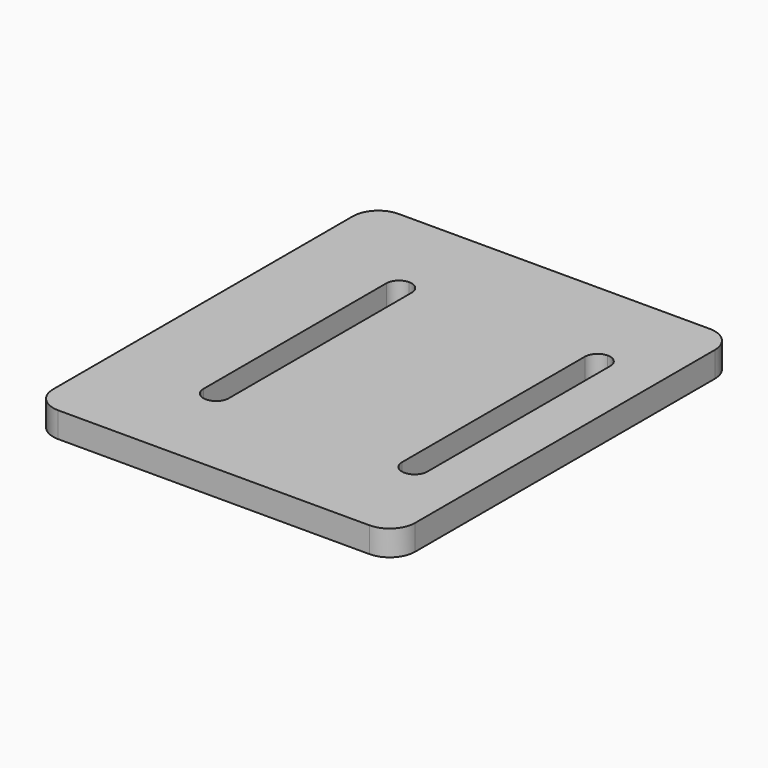
from build123d import *

# Parameters (mm, degrees)
F1_DEPTH = 2


with BuildPart() as f1:
    # F0 (on Top) → F1 (new body)
    with BuildSketch(Plane.XY):
        with BuildLine():
            ThreePointArc((-10.818966, -4.436992), (-10.233179, -5.851206), (-8.818966, -6.436992))
            Line((-8.818966, -6.436992), (15.681034, -6.436992))
            ThreePointArc((15.681034, -6.436992), (17.095248, -5.851206), (17.681034, -4.436992))
            Line((17.681034, -4.436992), (17.681034, 25.063008))
            ThreePointArc((17.681034, 25.063008), (17.095248, 26.477221), (15.681034, 27.063008))
            Line((15.681034, 27.063008), (-8.818966, 27.063008))
            ThreePointArc((-8.818966, 27.063008), (-10.233179, 26.477221), (-10.818966, 25.063008))
            Line((-10.818966, 25.063008), (-10.818966, -4.436992))
        make_face()
        with BuildLine():
            Line((-3.635373, 1.369561), (-3.635373, 19.369561))
            ThreePointArc((-3.635373, 19.369561), (-3.34248, 20.076668), (-2.635373, 20.369561))
            ThreePointArc((-2.635373, 20.369561), (-1.928266, 20.076668), (-1.635373, 19.369561))
            Line((-1.635373, 19.369561), (-1.635373, 1.369561))
            ThreePointArc((-1.635373, 1.369561), (-1.928266, 0.662455), (-2.635373, 0.369561))
            ThreePointArc((-2.635373, 0.369561), (-3.34248, 0.662455), (-3.635373, 1.369561))
        make_face(mode=Mode.SUBTRACT)
        with BuildLine():
            Line((12.000634, 1.369561), (12.000634, 19.369561))
            ThreePointArc((12.000634, 19.369561), (12.293528, 20.076668), (13.000634, 20.369561))
            ThreePointArc((13.000634, 20.369561), (13.707741, 20.076668), (14.000634, 19.369561))
            Line((14.000634, 19.369561), (14.000634, 1.369561))
            ThreePointArc((14.000634, 1.369561), (13.707741, 0.662455), (13.000634, 0.369561))
            ThreePointArc((13.000634, 0.369561), (12.293528, 0.662455), (12.000634, 1.369561))
        make_face(mode=Mode.SUBTRACT)
    extrude(amount=F1_DEPTH)


solid = f1.part
